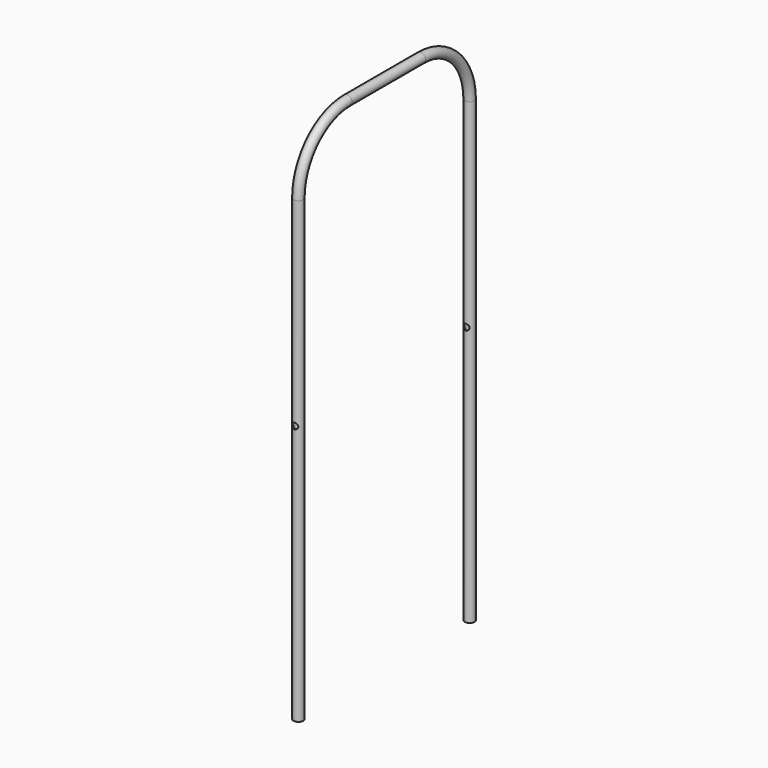
from build123d import *

# Parameters (mm, degrees)
F1_R     = 8
F3_T     = -1.5
F5_D     = 10
F5_DEPTH = 358.0010001
F6_D     = 10


with BuildPart() as f2:
    # F2: sweep along a path in F0
    with BuildLine(Plane.YZ) as f2_path:
        Line((0, 0), (0, 750))
        ThreePointArc((0, 750), (-29.2893218813, 820.7106781187), (-100, 850))
        Line((-100, 850), (-250, 850))
        ThreePointArc((-250, 850), (-320.7106781187, 820.7106781187), (-350, 750))
        Line((-350, 750), (-350, 0))
    # F1 (on Top) → F2 (sweep)
    with BuildSketch(Plane.XY):
        Circle(F1_R)
    sweep(path=f2_path.line)

    # F3
    f3_openings = [f2.faces().sort_by_distance(p)[0] for p in [
        (0, -350, 0),
        (0, 0, 0),
    ]]
    offset(amount=F3_T, openings=f3_openings)

    # F5 (through all, one way)
    with BuildSketch(Plane(origin=(0, 0, 0), x_dir=(1, 0, 0), z_dir=(0, 1, 0))):
        with Locations((0, -425)):
            Circle(F5_D / 2)
    extrude(amount=-F5_DEPTH, mode=Mode.SUBTRACT)

    # F6 (through all)
    with Locations(Plane.XZ):
        with Locations((0, 425)):
            Hole(F6_D / 2)


solid = f2.part
